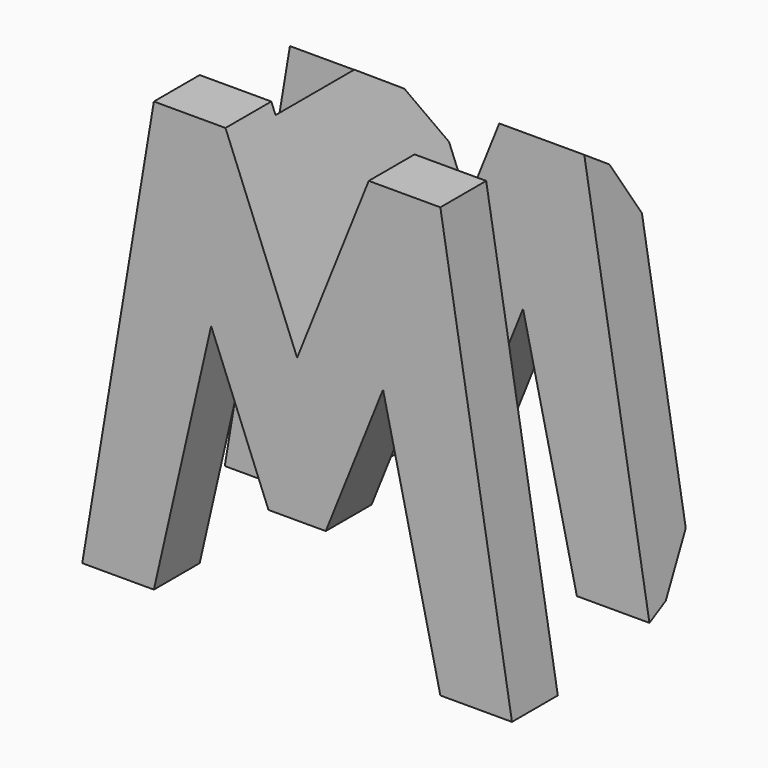
from build123d import *

# Parameters (mm, degrees)
F0_W      = 38.1
F0_H      = 38.1
F1_DEPTH  = 38.1
F6_DEPTH  = 38.1
F7_W      = 4.854846
F7_H      = 38.1
F8_DEPTH  = 38.1
F9_W      = 19.943573
F9_H      = 10.434402
F9_W_2    = 13.076427
F9_W_3    = 38.1
F9_H_2    = 6.627924
F9_H_3    = 10.877674
F10_DEPTH = 38.1


with BuildPart() as f1:
    # F0 (on Front) → F1 (new body)
    with BuildSketch(Plane.XZ):
        with Locations((19.05, 19.05)):
            Rectangle(F0_W, F0_H)
    extrude(amount=F1_DEPTH)

    # F5 (on offset) → F6 (cut)
    with BuildSketch(Plane.XZ.offset(38.1)):
        Polygon((0, 38.1), (0, 0), (6.35, 38.1), align=None)
        Polygon((25.4, 38.1), (12.7, 38.1), (19.05, 22.225), align=None)
        Polygon((31.75, 38.1), (38.1, 0), (38.1, 38.1), align=None)
        Polygon((11.43, 22.225), (6.35, 0), (31.75, 0), (26.67, 22.225), (21.59, 9.525), (16.51, 9.525), align=None)
    extrude(amount=-F6_DEPTH, mode=Mode.SUBTRACT)

    # F7 (on offset) → F8 (cut)
    with BuildSketch(Plane.YZ.offset(38.1)):
        with Locations((-35.672577, 19.05)):
            Rectangle(F7_W, F7_H)
        Polygon((-19.05, 0), (0, 0), (0, 38.1), (-19.05, 38.1), (-13.519695, 34.353327), (-10.860084, 29.699003), (-10.860084, 19.725459), (-10.860084, 13.076427), (-10.860084, 6.427397), (-13.962964, 2.216344), align=None)
    extrude(amount=-F8_DEPTH, mode=Mode.SUBTRACT)

    # F9 (on offset) → F10 (cut)
    with BuildSketch(Plane.XY.offset(38.1)):
        with Locations((28.128214, -21.174875)):
            Rectangle(F9_W, F9_H)
        with Locations((6.538213, -21.174875)):
            Rectangle(F9_W_2, F9_H)
        with Locations((19.05, -34.786038)):
            Rectangle(F9_W_3, F9_H_2)
        with Locations((19.05, -5.438837)):
            Rectangle(F9_W_3, F9_H_3)
    extrude(amount=-F10_DEPTH, mode=Mode.SUBTRACT)


solid = f1.part
